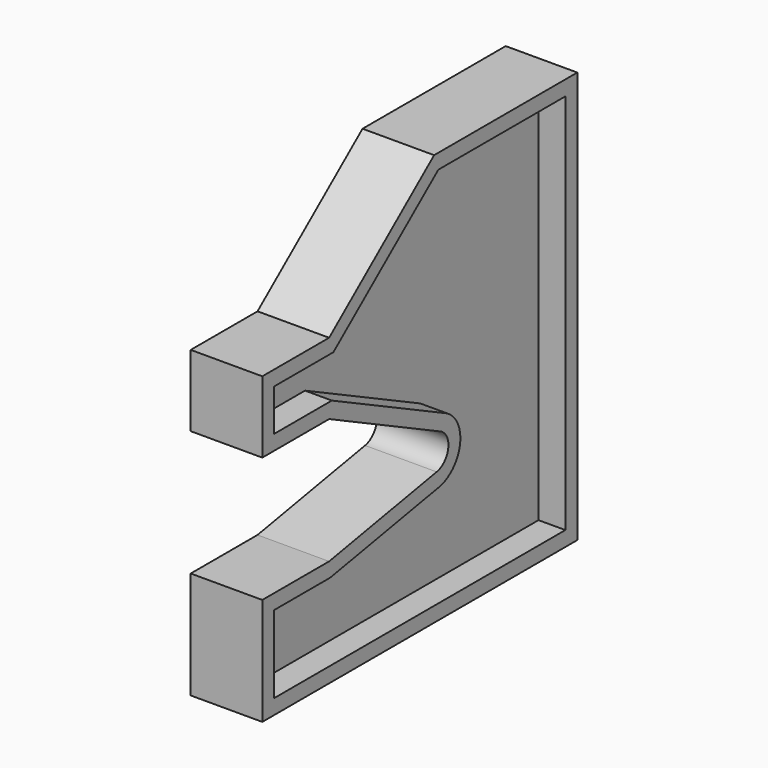
from build123d import *

# Parameters (mm, degrees)
F1_DEPTH = 38.1
F3_DEPTH = 152.4


with BuildPart() as f1:
    # F0 (on Right) → F1 (new body, symmetric)
    with BuildSketch(Plane.YZ):
        with BuildLine():
            ThreePointArc((33.2424010234, 703.5666301797), (75.487634561, 624.6049517374), (13.4725780266, 560.0004690593))
            Line((13.4725780266, 560.0004690593), (-558.8, 457.2))
            Line((-558.8, 457.2), (-914.4, 457.2))
            Line((-914.4, 457.2), (-914.4, 0))
            Line((-914.4, 0), (762, 0))
            Line((762, 0), (762, 1752.6))
            Line((762, 1752.6), (0, 1752.6))
            Line((0, 1752.6), (-558.8, 1295.4))
            Line((-558.8, 1295.4), (-914.4, 1295.4))
            Line((-914.4, 1295.4), (-914.4, 990.6))
            Line((-914.4, 990.6), (-558.8, 990.6))
            Line((-558.8, 990.6), (33.2424010234, 703.5666301797))
        make_face()
    extrude(amount=F1_DEPTH, both=True)

    # F2 (on Right) → F3 (join, symmetric)
    with BuildSketch(Plane.YZ):
        with BuildLine():
            Line((-558.8, 990.6), (33.2424010234, 703.5666301797))
            ThreePointArc((33.2424010234, 703.5666301797), (75.487634561, 624.6049517374), (13.4725780266, 560.0004690593))
            Line((13.4725780266, 560.0004690593), (-558.8, 457.2))
            Line((-558.8, 457.2), (-914.4, 457.2))
            Line((-914.4, 457.2), (-914.4, 0))
            Line((-914.4, 0), (762, 0))
            Line((762, 0), (762, 1752.6))
            Line((762, 1752.6), (0, 1752.6))
            Line((0, 1752.6), (-558.8, 1295.4))
            Line((-558.8, 1295.4), (-914.4, 1295.4))
            Line((-914.4, 1295.4), (-914.4, 990.6))
            Line((-914.4, 990.6), (-558.8, 990.6))
        make_face()
        with BuildLine():
            Line((698.5, 1689.1), (698.5, 63.5))
            Line((698.5, 63.5), (-850.9, 63.5))
            Line((-850.9, 63.5), (-850.9, 393.7))
            Line((-850.9, 393.7), (-553.1418560933, 393.7))
            Line((-553.1418560933, 393.7), (24.699726382, 497.5008599421))
            ThreePointArc((24.699726382, 497.5008599421), (138.3939966952, 615.9424115186), (60.9444018763, 760.7054886627))
            Line((60.9444018763, 760.7054886627), (-544.2186530254, 1054.1))
            Line((-544.2186530254, 1054.1), (-850.9, 1054.1))
            Line((-850.9, 1054.1), (-850.9, 1231.9))
            Line((-850.9, 1231.9), (-536.1328254861, 1231.9))
            Line((-536.1328254861, 1231.9), (22.6671745139, 1689.1))
            Line((22.6671745139, 1689.1), (698.5, 1689.1))
        make_face(mode=Mode.SUBTRACT)
    extrude(amount=F3_DEPTH, both=True)


solid = f1.part
